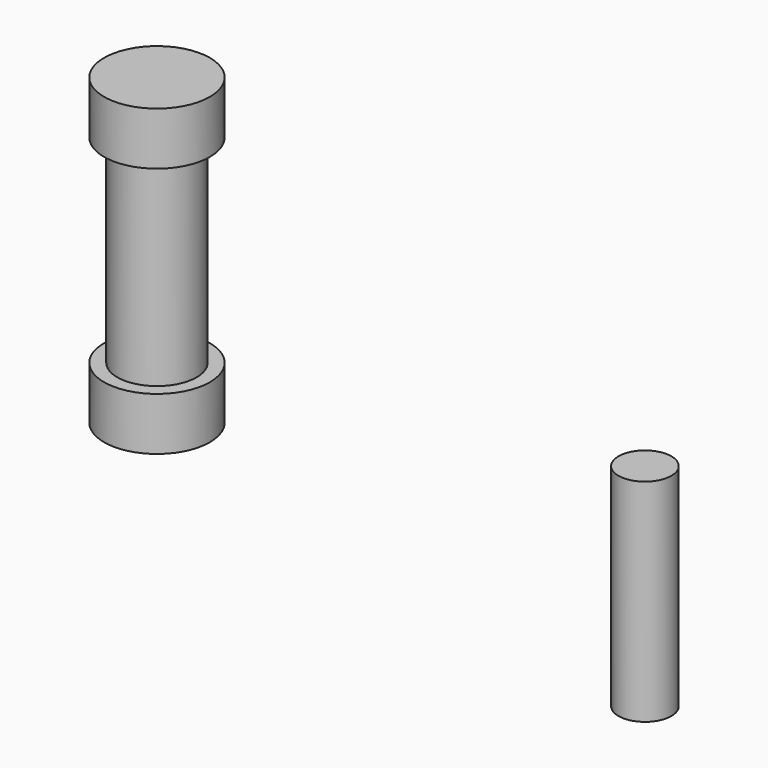
from build123d import *

# Parameters (mm, degrees)
F0_R     = 2.54
F0_R_2   = 1.905
F1_DEPTH = 2.54
F2_DEPTH = 9.525
F3_R     = 2.54
F4_DEPTH = 2.54
F5_R     = 1.27
F6_DEPTH = 10.16


with BuildPart() as f1:
    # F0 (on Top) → F1 (new body)
    with BuildSketch(Plane.XY):
        Circle(F0_R)
        Circle(F0_R_2, mode=Mode.SUBTRACT)
        Circle(F0_R_2)
    extrude(amount=-F1_DEPTH)

    # F0 (on Top) → F2 (join)
    with BuildSketch(Plane.XY):
        Circle(F0_R_2)
    extrude(amount=F2_DEPTH)

    # F3 (on face) → F4 (join)
    with BuildSketch(Plane.XY.offset(9.525)):
        Circle(F3_R)
    extrude(amount=F4_DEPTH)


with BuildPart() as f6:
    # F5 (on Top) → F6 (new body)
    with BuildSketch(Plane.XY):
        with Locations((31.7274779081, -10.3624220937)):
            Circle(F5_R)
    extrude(amount=F6_DEPTH)


solid = Compound([f1.part, f6.part])
